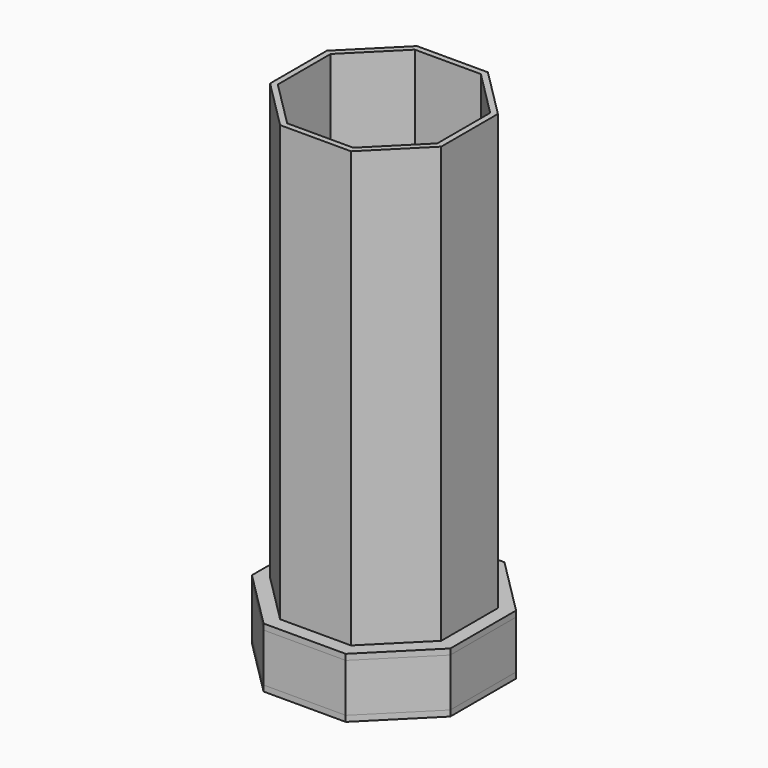
from build123d import *

# Parameters (mm, degrees)
F0_R     = 3
F1_DEPTH = 12
F3_DEPTH = 100
F4_R     = 165
F5_DEPTH = 12
F7_DEPTH = 900


with BuildPart() as f1:
    # F0 (on Top) → F1 (new body)
    with BuildSketch(Plane.XY):
        Polygon((85, 205.208153), (-85, 205.208153), (-205.208153, 85), (-205.208153, -85), (-85, -205.208153), (85, -205.208153), (205.208153, -85), (205.208153, 85), align=None)
        with Locations((-156, -63.50853)):
            Circle(F0_R, mode=Mode.SUBTRACT)
        with Locations((-156, -46.50853)):
            Circle(F0_R, mode=Mode.SUBTRACT)
        with Locations((-156, -29.50853)):
            Circle(F0_R, mode=Mode.SUBTRACT)
        with Locations((99, -103.345698)):
            Circle(F0_R, mode=Mode.SUBTRACT)
        with Locations((116, -103.345698)):
            Circle(F0_R, mode=Mode.SUBTRACT)
        with Locations((133, -103.345698)):
            Circle(F0_R, mode=Mode.SUBTRACT)
        with Locations((23, 166.854228)):
            Circle(F0_R, mode=Mode.SUBTRACT)
        with Locations((40, 166.854228)):
            Circle(F0_R, mode=Mode.SUBTRACT)
        with Locations((57, 166.854228)):
            Circle(F0_R, mode=Mode.SUBTRACT)
    extrude(amount=F1_DEPTH)


with BuildPart() as f3:
    # F2 (on face) → F3 (new body)
    with BuildSketch(Plane.XY.offset(12)):
        Polygon((-85, 205.208153), (-205.208153, 85), (-205.208153, -85), (-85, -205.208153), (85, -205.208153), (205.208153, -85), (205.208153, 85), (85, 205.208153), align=None)
        Polygon((80.029437, -193.208153), (-80.029437, -193.208153), (-193.208153, -80.029437), (-193.208153, 80.029437), (-80.029437, 193.208153), (80.029437, 193.208153), (193.208153, 80.029437), (193.208153, -80.029437), align=None, mode=Mode.SUBTRACT)
    extrude(amount=F3_DEPTH)


with BuildPart() as f5:
    # F4 (on face) → F5 (new body)
    with BuildSketch(Plane.XY.offset(112)):
        Polygon((205.208153, 85), (85, 205.208153), (-85, 205.208153), (-205.208153, 85), (-205.208153, -85), (-85, -205.208153), (85, -205.208153), (205.208153, -85), align=None)
        Circle(F4_R, mode=Mode.SUBTRACT)
    extrude(amount=F5_DEPTH)


with BuildPart() as f7:
    # F6 (on face) → F7 (new body)
    with BuildSketch(Plane.XY.offset(124)):
        Polygon((-165, 68.345238), (-68.345238, 165), (-56.345238, 177), (-73.315801, 177), (-165, 85.315801), align=None)
        Polygon((-56.345238, 177), (-68.345238, 165), (68.345238, 165), (165, 68.345238), (165, -68.345238), (68.345238, -165), (-68.345238, -165), (-165, -68.345238), (-165, 68.345238), (-165, 85.315801), (-177, 73.315801), (-177, -73.315801), (-73.315801, -177), (73.315801, -177), (177, -73.315801), (177, 73.315801), (73.315801, 177), align=None)
    extrude(amount=F7_DEPTH)


solid = Compound([f1.part, f3.part, f5.part, f7.part])
